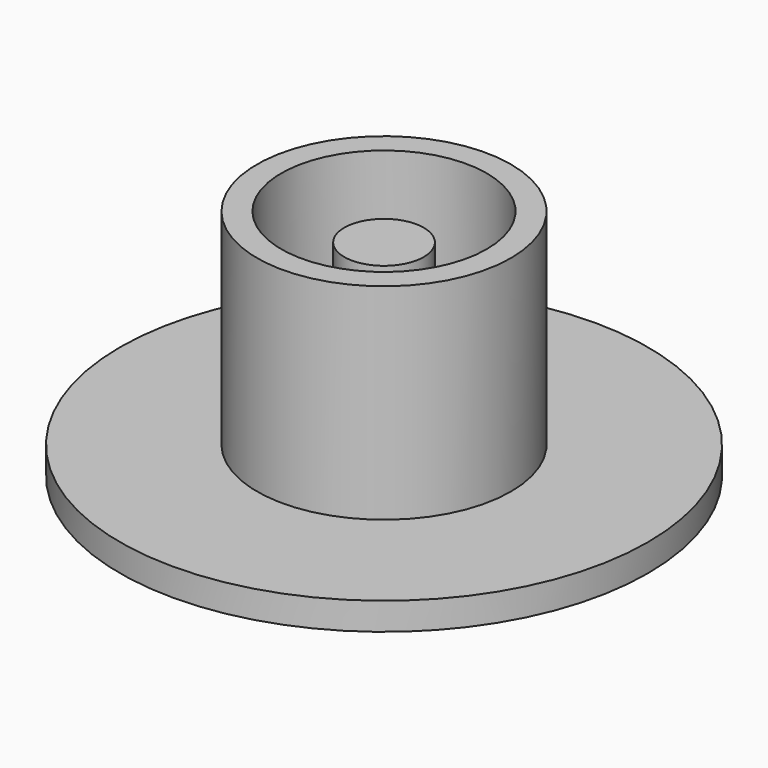
from build123d import *

# Parameters (mm, degrees)
F2_R     = 7.5
F3_DEPTH = 15
F4_R     = 3
F5_DEPTH = 22.001
F6_R     = 2.9
F7_DEPTH = 20


with BuildPart() as f1:
    # F0 (on Front) → F1 (revolve)
    with BuildSketch(Plane.XZ):
        Polygon((9.265741, 0), (0, 0), (0, -22), (5, -22), (5, -17), (9.265741, -17), (19.265741, -17), (19.265741, -15), (9.265741, -15), align=None)
    revolve(axis=Axis((0, 0, -11), (0, 0, 1)))

    # F2 (on face) → F3 (cut, through all)
    with BuildSketch(Plane.XY):
        Circle(F2_R)
    extrude(amount=-F3_DEPTH, mode=Mode.SUBTRACT)

    # F4 (on face) → F5 (cut, through all)
    with BuildSketch(Plane(origin=(0, 0, -22), x_dir=(1, 0, 0), z_dir=(0, 0, -1))):
        Circle(F4_R)
    extrude(amount=-F5_DEPTH, mode=Mode.SUBTRACT)


with BuildPart() as f7:
    # F6 (on face) → F7 (new body)
    with BuildSketch(Plane(origin=(0, 0, -22), x_dir=(1, 0, 0), z_dir=(0, 0, -1))):
        Circle(F6_R)
    extrude(amount=-F7_DEPTH)


solid = Compound([f1.part, f7.part])
